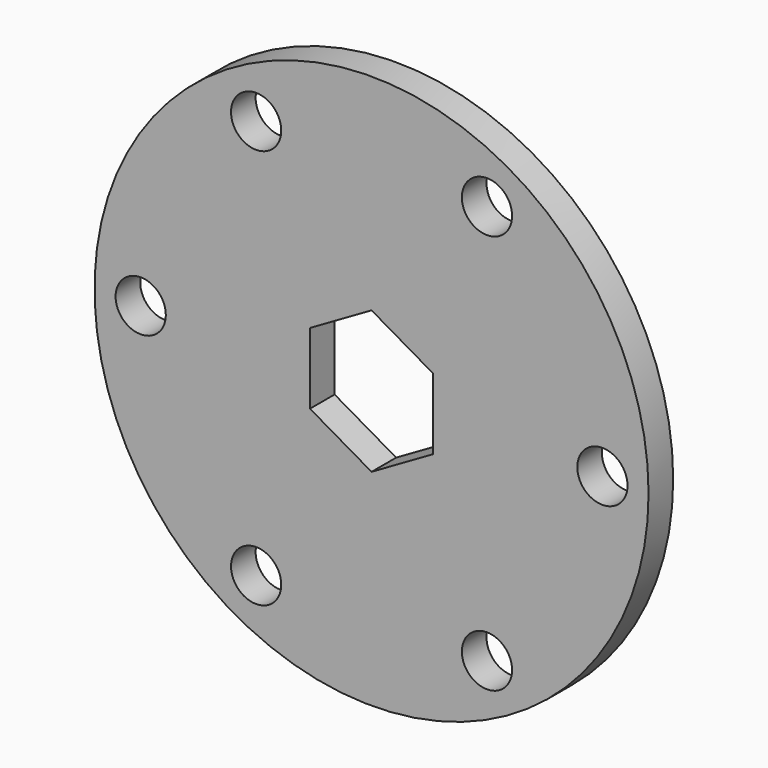
from build123d import *

# Parameters (mm, degrees)
F0_R     = 28.575
F0_R_2   = 2.5908
F1_DEPTH = 3.175


with BuildPart() as f1:
    # F0 (on Front) → F1 (new body)
    with BuildSketch(Plane.XZ):
        Circle(F0_R)
        with Locations((-11.90625, -20.62223)):
            Circle(F0_R_2, mode=Mode.SUBTRACT)
        with Locations((11.90625, -20.62223)):
            Circle(F0_R_2, mode=Mode.SUBTRACT)
        with Locations((-23.8125, 0)):
            Circle(F0_R_2, mode=Mode.SUBTRACT)
        with Locations((-11.90625, 20.62223)):
            Circle(F0_R_2, mode=Mode.SUBTRACT)
        Polygon((-6.35, 3.666174), (0, 7.332348), (6.35, 3.666174), (6.35, -3.666174), (0, -7.332348), (-6.35, -3.666174), align=None, mode=Mode.SUBTRACT)
        with Locations((23.8125, 0)):
            Circle(F0_R_2, mode=Mode.SUBTRACT)
        with Locations((11.90625, 20.62223)):
            Circle(F0_R_2, mode=Mode.SUBTRACT)
    extrude(amount=F1_DEPTH)


solid = f1.part
